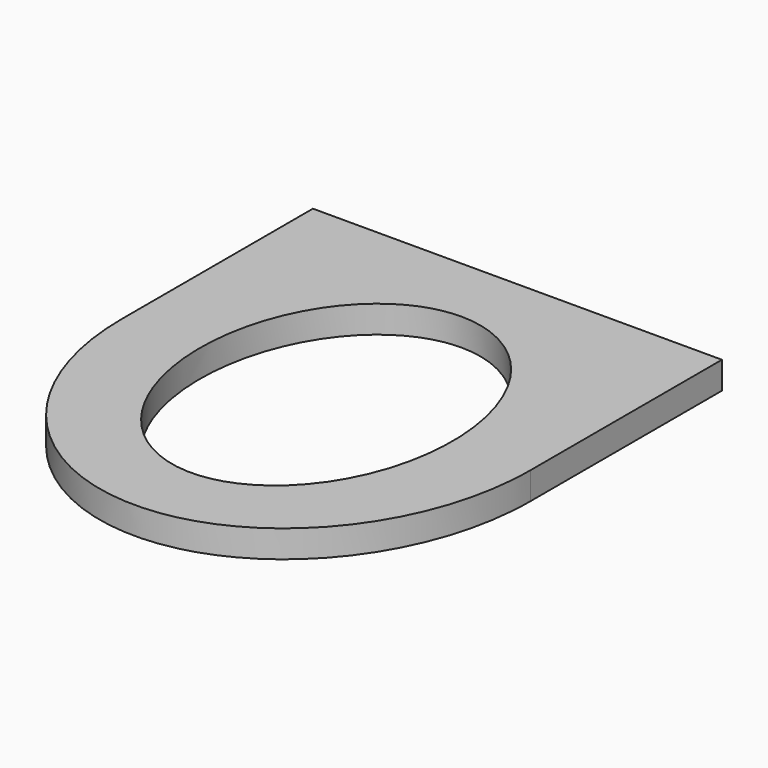
from build123d import *

# Parameters (mm, degrees)
F1_DEPTH = 5.08


with BuildPart() as f1:
    # F0 (on Top) → F1 (new body)
    with BuildSketch(Plane.XY):
        with BuildLine():
            add(Edge.make_bspline(
                [(0, 44.5516), (-38.1, 44.5516), (-38.1, 0)],
                knots=[0, 0, 0, 1.570796, 1.570796, 1.570796], degree=2, weights=[1, 0.707107, 1]))
            Line((0, 44.5516), (-38.1, 44.5516))
            Line((-38.1, 44.5516), (-38.1, 0))
        make_face()
        with BuildLine():
            add(Edge.make_bspline(
                [(0, 31.495598), (-23.528931, 31.495598), (-23.528931, 0)],
                knots=[0, 0, 0, 1.570796, 1.570796, 1.570796], degree=2, weights=[1, 0.707107, 1]))
            Line((0, 31.495598), (0, 37.845598))
            Line((0, 37.845598), (0, 44.5516))
            add(Edge.make_bspline(
                [(0, 44.5516), (-38.1, 44.5516), (-38.1, 0)],
                knots=[0, 0, 0, 1.570796, 1.570796, 1.570796], degree=2, weights=[1, 0.707107, 1]))
            Line((-38.1, 0), (-29.878931, 0))
            Line((-29.878931, 0), (-23.528931, 0))
        make_face()
        with BuildLine():
            Line((0, 37.845598), (0, 31.495598))
            add(Edge.make_bspline(
                [(-23.528931, 0), (-23.528931, -76.037099), (16.637467, -22.270751), (56.803865, 31.495598), (0, 31.495598)],
                knots=[1.570796, 1.570796, 1.570796, 3.926991, 3.926991, 6.283185, 6.283185, 6.283185], degree=2, weights=[1, 0.382683, 1, 0.382683, 1]))
            Line((-23.528931, 0), (-29.878931, 0))
            Line((-29.878931, 0), (-38.1, 0))
            add(Edge.make_bspline(
                [(-38.1, 0), (-38.1, -44.5516), (0, -44.5516), (38.1, -44.5516), (38.1, 0)],
                knots=[1.570796, 1.570796, 1.570796, 3.141593, 3.141593, 4.712389, 4.712389, 4.712389], degree=2, weights=[1, 0.707107, 1, 0.707107, 1]))
            add(Edge.make_bspline(
                [(38.1, 0), (38.1, 44.5516), (0, 44.5516)],
                knots=[4.712389, 4.712389, 4.712389, 6.283185, 6.283185, 6.283185], degree=2, weights=[1, 0.707107, 1]))
            Line((0, 44.5516), (0, 37.845598))
        make_face()
        with BuildLine():
            Line((38.1, 44.5516), (0, 44.5516))
            add(Edge.make_bspline(
                [(38.1, 0), (38.1, 44.5516), (0, 44.5516)],
                knots=[4.712389, 4.712389, 4.712389, 6.283185, 6.283185, 6.283185], degree=2, weights=[1, 0.707107, 1]))
            Line((38.1, 0), (38.1, 44.5516))
        make_face()
    extrude(amount=F1_DEPTH)


solid = f1.part
